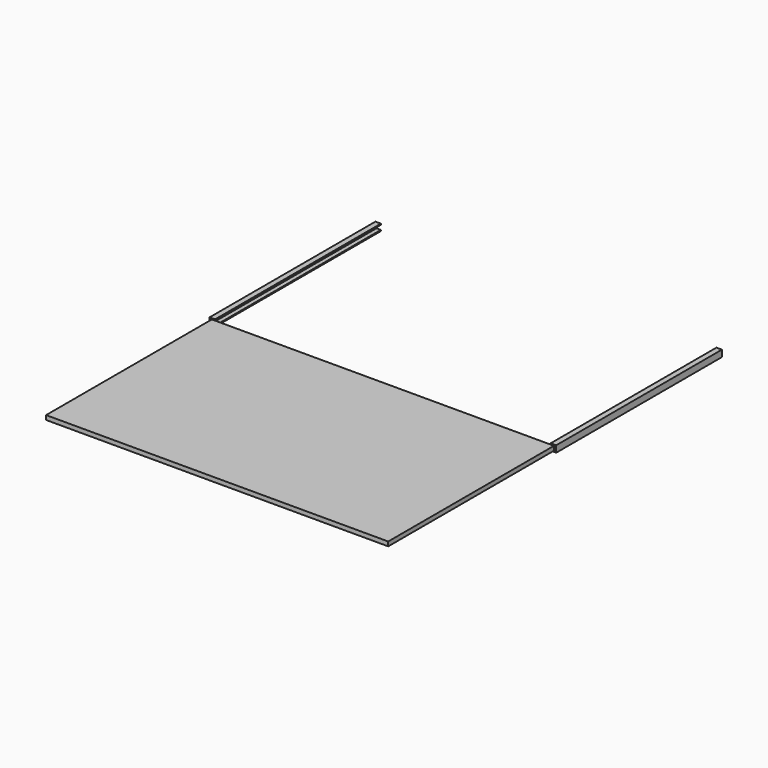
from build123d import *

# Parameters (mm, degrees)
F1_DEPTH = 479.9076
F3_DEPTH = 479.9076


with BuildPart() as f1:
    # F0 (on Front) → F1 (new body)
    with BuildSketch(Plane.XZ):
        Polygon((0, -2.54), (0, 0), (-12.7, 0), (-12.7, -15.24), (0, -15.24), (0, -12.7), (-10.16, -12.7), (-10.16, -2.54), align=None)
    extrude(amount=F1_DEPTH)


with BuildPart() as f3:
    # F2 (on face) → F3 (new body)
    with BuildSketch(Plane.XZ.offset(479.9076)):
        Polygon((388.62, -2.6924), (-7.62, -2.6924), (-7.62, -12.7), (0, -12.7), (388.62, -12.7), align=None)
    extrude(amount=F3_DEPTH)

    # F5: F3, F1 across plane


with BuildPart() as f3_1:
    add(f3.part)
    add(f3.part.mirror(Plane(origin=(388.62, -719.8614, -7.6962), x_dir=(0, 1, 0), z_dir=(1, 0, 0))))
    add(f1.part.mirror(Plane(origin=(388.62, -719.8614, -7.6962), x_dir=(0, 1, 0), z_dir=(1, 0, 0))))


solid = Compound([f1.part, f3_1.part])
